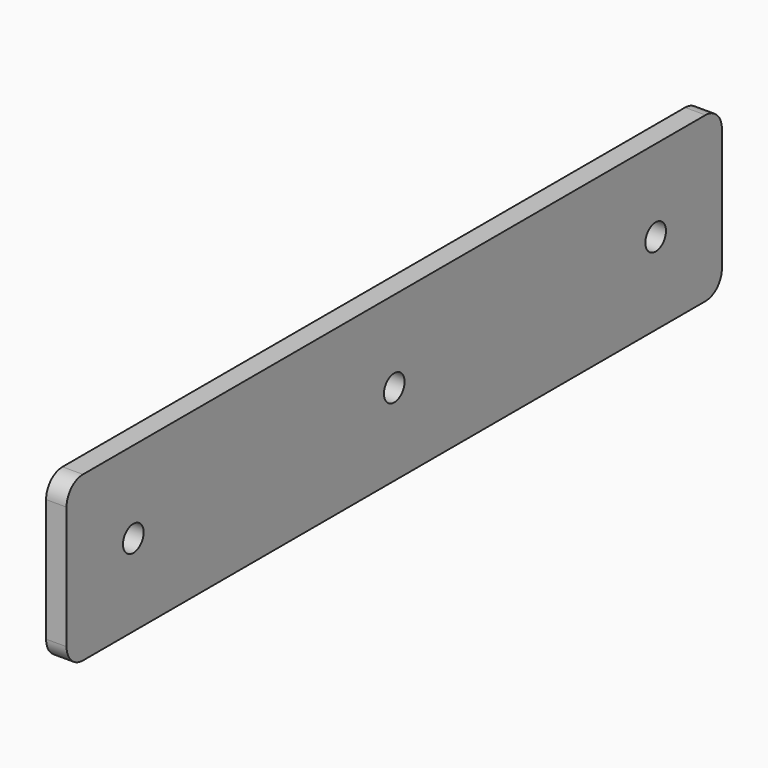
from build123d import *

# Parameters (mm, degrees)
F0_R     = 4
F1_DEPTH = 6.35


with BuildPart() as f1:
    # F0 (on Right) → F1 (new body)
    with BuildSketch(Plane.YZ):
        with BuildLine():
            Line((120.65, 25.4), (-120.65, 25.4))
            ThreePointArc((-120.65, 25.4), (-125.140128, 23.540128), (-127, 19.05))
            Line((-127, 19.05), (-127, 0))
            Line((-127, 0), (-127, -19.05))
            ThreePointArc((-127, -19.05), (-125.140128, -23.540128), (-120.65, -25.4))
            Line((-120.65, -25.4), (120.65, -25.4))
            ThreePointArc((120.65, -25.4), (125.140128, -23.540128), (127, -19.05))
            Line((127, -19.05), (127, 0))
            Line((127, 0), (127, 19.05))
            ThreePointArc((127, 19.05), (125.140128, 23.540128), (120.65, 25.4))
        make_face()
        with BuildLine():
            ThreePointArc((-97.123065, 0), (-101.123065, -4), (-105.123065, 0))
            ThreePointArc((-105.123065, 0), (-101.123065, 4), (-97.123065, 0))
        make_face(mode=Mode.SUBTRACT)
        Circle(F0_R, mode=Mode.SUBTRACT)
        with Locations((101.316608, 0)):
            Circle(F0_R, mode=Mode.SUBTRACT)
    extrude(amount=F1_DEPTH)


solid = f1.part
